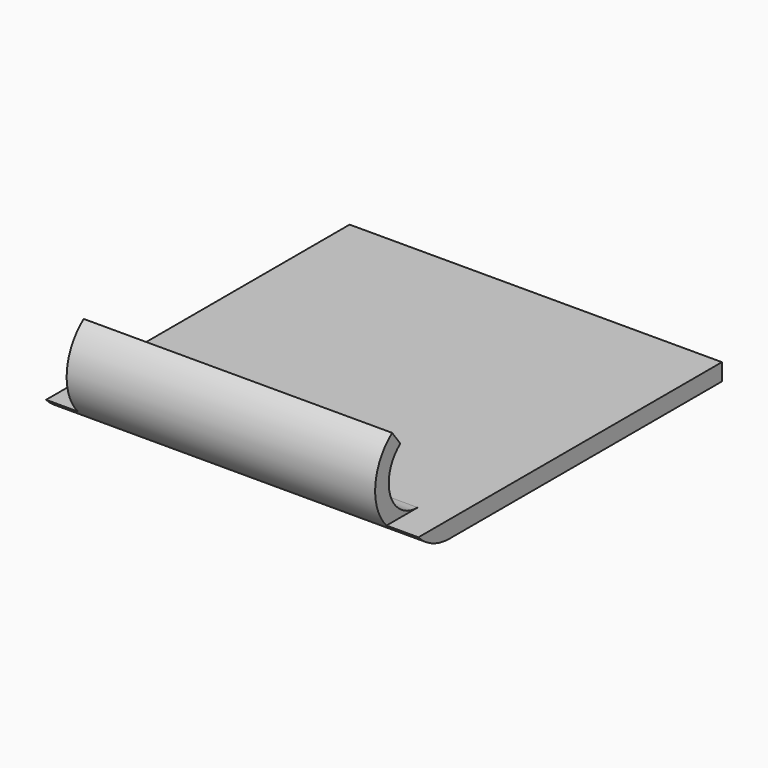
from build123d import *

# Parameters (mm, degrees)
F1_W     = 35
F1_H     = 1.6
F4_W     = 3
F4_H     = 8
F5_DEPTH = 5.001


with BuildPart() as f2:
    # F2: sweep along a path in F0
    with BuildLine(Plane.YZ) as f2_path:
        ThreePointArc((-3, 9), (-4.743416, 3.418861), (0, 0))
    # F1 (on Front) → F2 (sweep)
    with BuildSketch(Plane.XZ):
        with Locations((17.5, 0.8)):
            Rectangle(F1_W, F1_H)
    sweep(path=f2_path.line)

    # F3: sweep along a path in F0
    with BuildLine(Plane.YZ) as f3_path:
        Line((0, 0), (32, 0))
    # F1 (on Front) → F3 (sweep)
    with BuildSketch(Plane.XZ):
        with Locations((17.5, 0.8)):
            Rectangle(F1_W, F1_H)
    sweep(path=f3_path.line)

    # F4 (on Front) → F5 (cut, through all)
    with BuildSketch(Plane.XZ):
        with Locations((1.5, 5.6)):
            Rectangle(F4_W, F4_H)
        with Locations((33.5, 5.6)):
            Rectangle(F4_W, F4_H)
    extrude(amount=F5_DEPTH, mode=Mode.SUBTRACT)


solid = f2.part
